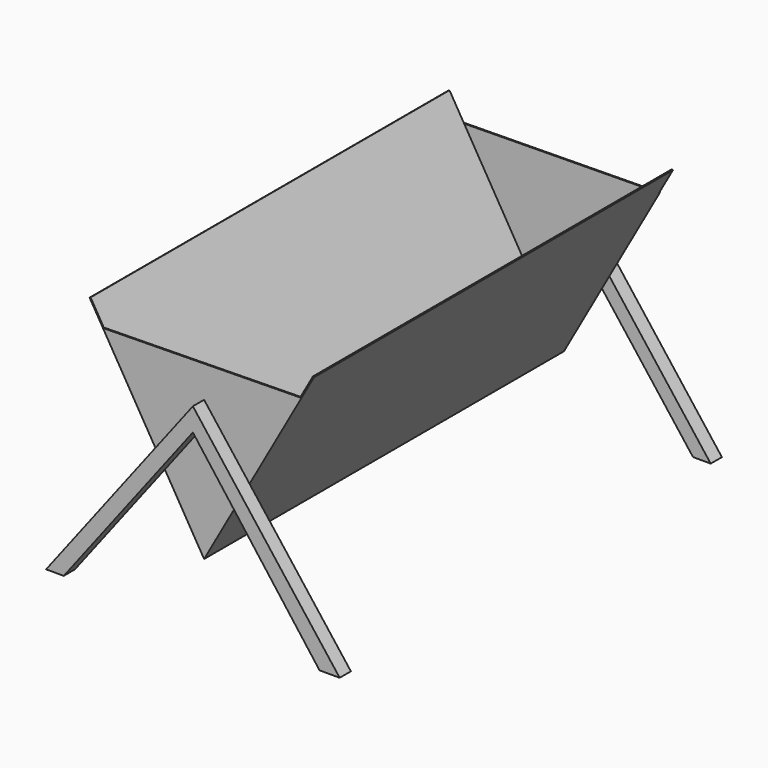
from build123d import *

# Parameters (mm, degrees)
F1_DEPTH  = 800
F3_DEPTH  = 2
F5_DEPTH  = 2
F7_DEPTH  = 25
F9_DEPTH  = 25
F11_R     = 15
F12_DEPTH = 10


with BuildPart() as f1:
    # F0 (on Front) → F1 (new body)
    with BuildSketch(Plane.XZ):
        Polygon((-202.4154143159, 327.6886455222), (-204.1763566452, 326.7404461164), (0, -17.224690761), (195.7943682295, 331.5797893846), (194.0503458287, 332.5587612257), (0, -13.1387713996), align=None)
    extrude(amount=F1_DEPTH)

    # F2 (on face) → F3 (join)
    with BuildSketch(Plane.XZ.offset(800)):
        Polygon((0, -13.1387713996), (171.3200722008, 292.0651487278), (-180.4445918465, 286.7607939107), align=None)
    extrude(amount=-F3_DEPTH)

    # F4 (on face) → F5 (join)
    with BuildSketch(Plane(origin=(0, 0, 0), x_dir=(-1, 0, 0), z_dir=(0, 1, 0))):
        Polygon((-171.3200722008, 287.9792293664), (0, -17.224690761), (178.6543120645, 283.7448040067), align=None)
    extrude(amount=F5_DEPTH)

    # F6 (on face) → F7 (join)
    with BuildSketch(Plane(origin=(0, 2, 0), x_dir=(-1, 0, 0), z_dir=(0, 1, 0))):
        Polygon((-67.7318355426, 103.4384718181), (-81.0449193734, 127.1555139717), (-261.7674144737, -108.3666270862), (-230.2556041235, -108.3666270862), align=None)
        Polygon((261.7674144737, -108.3666270862), (83.6715723559, 123.7323931592), (69.9270135898, 100.5776600892), (230.2556041235, -108.3666270862), align=None)
        Polygon((83.6715723559, 123.7323931592), (0, 232.775309239), (-81.0449193734, 127.1555139717), (-67.7318355426, 103.4384718181), (0, 191.7083184464), (69.9270135898, 100.5776600892), align=None)
    extrude(amount=F7_DEPTH)

    # F8 (on face) → F9 (join)
    with BuildSketch(Plane.XZ.offset(800)):
        Polygon((81.0449193734, 127.1555139717), (0, 232.775309239), (-83.6715723559, 123.7323931592), (-69.9270135898, 100.5776600892), (0, 191.7083184464), (67.1786031406, 102.4528972986), align=None)
        Polygon((261.7674144737, -108.3666270862), (81.0449193734, 127.1555139717), (67.1786031406, 102.4528972986), (225.8531237559, -108.3666270862), align=None)
        Polygon((-69.9270135898, 100.5776600892), (-83.6715723559, 123.7323931592), (-261.7674144737, -108.3666270862), (-230.2556041235, -108.3666270862), align=None)
    extrude(amount=F9_DEPTH)

    # F11 (on face) → F12 (cut)
    with BuildSketch(Plane(origin=(-7.5605140907, 0, -4.4878915213), x_dir=(0, -1, 0), z_dir=(-0.8599128422, 0, -0.5104408916))):
        with Locations((400, 82.1180880011)):
            Circle(F11_R)
        with Locations((306.596378018, 82.1180880011)):
            Circle(F11_R)
        with Locations((200, 82.1180880011)):
            Circle(F11_R)
        with Locations((100, 82.1180880011)):
            Circle(F11_R)
        with Locations((500, 82.1180880011)):
            Circle(F11_R)
        with Locations((600, 82.1180880011)):
            Circle(F11_R)
        with Locations((700, 82.1180880011)):
            Circle(F11_R)
    extrude(amount=-F12_DEPTH, mode=Mode.SUBTRACT)


solid = f1.part
